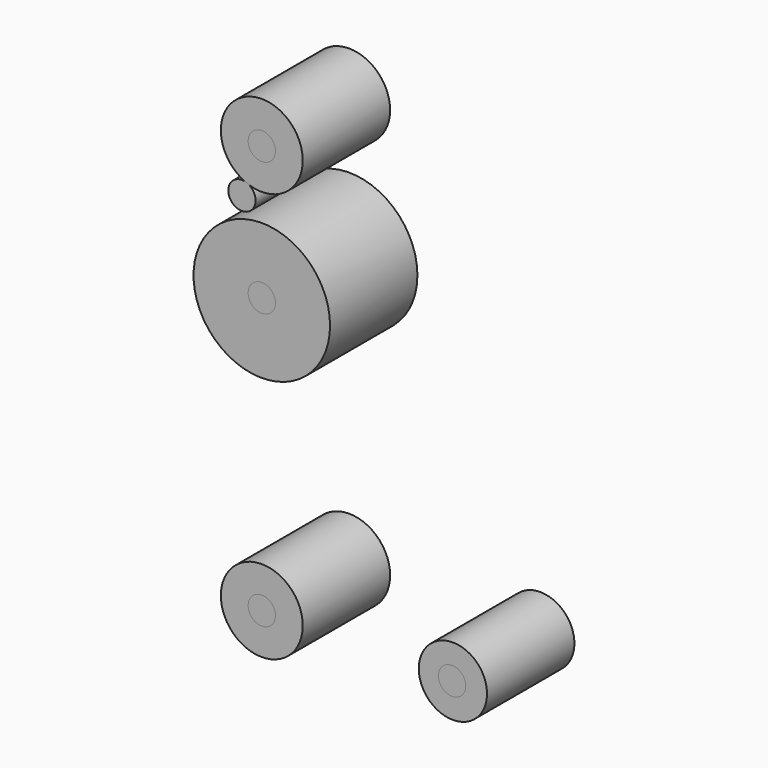
from build123d import *

# Parameters (mm, degrees)
F2_DEPTH = 25.4
F0_R     = 9.525
F0_R_2   = 15.875
F1_R     = 3.175


with BuildPart() as f2:
    # F0 (on Front) → F2 (new body)
    with BuildSketch(Plane.XZ):
        with BuildLine():
            ThreePointArc((52.3875, 0), (44.45, 7.9375), (36.5125, 0))
            ThreePointArc((36.5125, 0), (44.45, -7.9375), (52.3875, 0))
        make_face()
    extrude(amount=F2_DEPTH)


with BuildPart() as f2b:
    # F0 (on Front) → F2, piece 2 (new body)
    with BuildSketch(Plane.XZ):
        Circle(F0_R)
    extrude(amount=F2_DEPTH)


with BuildPart() as f2c:
    # F0 (on Front) → F2, piece 3 (new body)
    with BuildSketch(Plane.XZ):
        with Locations((0, 95.25)):
            Circle(F0_R)
    extrude(amount=F2_DEPTH)


with BuildPart() as f2d:
    # F0 (on Front) → F2, piece 4 (new body)
    with BuildSketch(Plane.XZ):
        with Locations((0, 63.5)):
            Circle(F0_R_2)
    extrude(amount=F2_DEPTH)


with BuildPart() as f2e:
    # F1 (on Front) → F2, piece 5 (new body)
    with BuildSketch(Plane.XZ):
        with Locations((0, 95.1159447432)):
            Circle(F1_R)
    extrude(amount=F2_DEPTH)


with BuildPart() as f2f:
    # F1 (on Front) → F2, piece 6 (new body)
    with BuildSketch(Plane.XZ):
        with Locations((0, 64.0149340034)):
            Circle(F1_R)
    extrude(amount=F2_DEPTH)


with BuildPart() as f2g:
    # F1 (on Front) → F2, piece 7 (new body)
    with BuildSketch(Plane.XZ):
        Circle(F1_R)
    extrude(amount=F2_DEPTH)


with BuildPart() as f2h:
    # F1 (on Front) → F2, piece 8 (new body)
    with BuildSketch(Plane.XZ):
        with Locations((44.2591272295, 0)):
            Circle(F1_R)
    extrude(amount=F2_DEPTH)


with BuildPart() as f2i:
    # F1 (on Front) → F2, piece 9 (new body)
    with BuildSketch(Plane.XZ):
        with Locations((-4.6138879843, 83.4957882762)):
            Circle(F1_R)
    extrude(amount=F2_DEPTH)


solid = Compound([f2.part, f2b.part, f2c.part, f2d.part, f2e.part, f2f.part, f2g.part, f2h.part, f2i.part])
